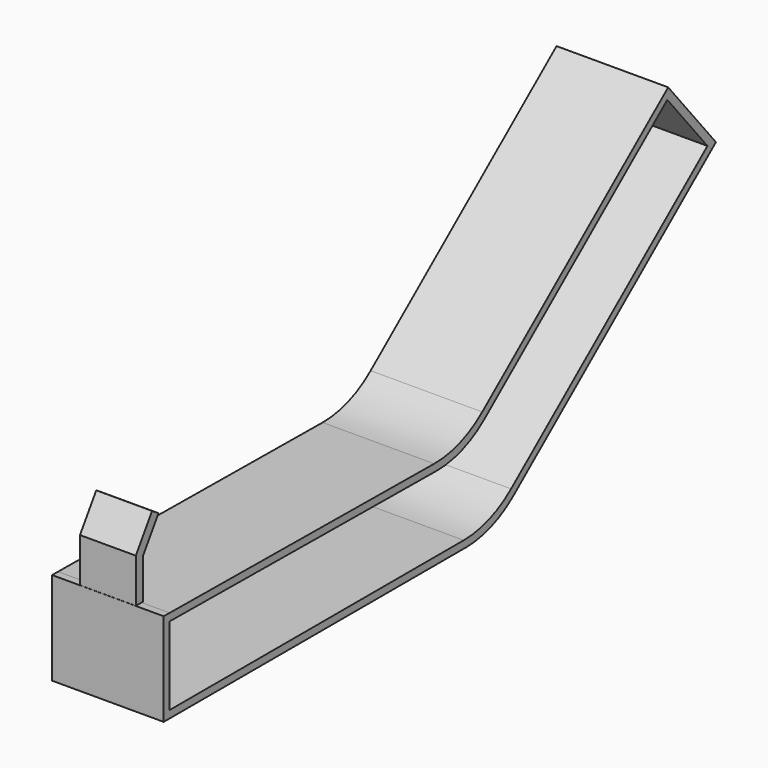
from build123d import *

# Parameters (mm, degrees)
F1_DEPTH = 3.81
F3_DEPTH = 1.905


with BuildPart() as f1:
    # F0 (on Right) → F1 (new body, symmetric)
    with BuildSketch(Plane.YZ):
        with BuildLine():
            Line((0, 5.841977), (0, 0))
            Line((0, 0), (25.789659, 0))
            ThreePointArc((25.789659, 0), (27.93331, 0.372772), (29.825279, 1.447321))
            Line((29.825279, 1.447321), (47.124376, 15.687003))
            Line((47.124376, 15.687003), (43.048515, 20.638569))
            Line((43.048515, 20.638569), (27.183299, 7.57918))
            ThreePointArc((27.183299, 7.57918), (25.263106, 6.494584), (23.087761, 6.132142))
            Line((23.087761, 6.132142), (0.508, 6.345206))
            Line((0.508, 6.345206), (0, 6.35))
            Line((0, 6.35), (0, 5.841977))
        make_face()
        with BuildLine():
            Line((25.607471, 0.508), (0.508, 0.508))
            Line((0.508, 0.508), (0.508, 5.837184))
            Line((0.508, 5.837184), (23.267856, 5.62242))
            ThreePointArc((23.267856, 5.62242), (25.443201, 5.984862), (27.363394, 7.069458))
            Line((27.363394, 7.069458), (42.973744, 19.919055))
            Line((42.973744, 19.919055), (46.402173, 15.750491))
            Line((46.402173, 15.750491), (29.643092, 1.955321))
            ThreePointArc((29.643092, 1.955321), (27.751123, 0.880772), (25.607471, 0.508))
        make_face(mode=Mode.SUBTRACT)
        with BuildLine():
            Line((0, 5.841977), (0, 0))
            Line((0, 0), (25.789659, 0))
            ThreePointArc((25.789659, 0), (27.93331, 0.372772), (29.825279, 1.447321))
            Line((29.825279, 1.447321), (47.124376, 15.687003))
            Line((47.124376, 15.687003), (43.048515, 20.638569))
            Line((43.048515, 20.638569), (27.183299, 7.57918))
            ThreePointArc((27.183299, 7.57918), (25.263106, 6.494584), (23.087761, 6.132142))
            Line((23.087761, 6.132142), (0.508, 6.345206))
            Line((0.508, 6.345206), (0, 6.35))
            Line((0, 6.35), (0, 5.841977))
        make_face()
        with BuildLine():
            Line((25.607471, 0.508), (0.508, 0.508))
            Line((0.508, 0.508), (0.508, 5.837184))
            Line((0.508, 5.837184), (23.267856, 5.62242))
            ThreePointArc((23.267856, 5.62242), (25.443201, 5.984862), (27.363394, 7.069458))
            Line((27.363394, 7.069458), (42.973744, 19.919055))
            Line((42.973744, 19.919055), (46.402173, 15.750491))
            Line((46.402173, 15.750491), (29.643092, 1.955321))
            ThreePointArc((29.643092, 1.955321), (27.751123, 0.880772), (25.607471, 0.508))
        make_face(mode=Mode.SUBTRACT)
    extrude(amount=F1_DEPTH, both=True)


with BuildPart() as f3:
    # F2 (on Right) → F3 (new body, symmetric)
    with BuildSketch(Plane.YZ):
        Polygon((0, 9.372201), (0, 6.356489), (0.595771, 6.352376), (0.595771, 9.078988), (1.941208, 11.135062), (1.389717, 11.495942), align=None)
    extrude(amount=F3_DEPTH, both=True)


solid = Compound([f1.part, f3.part])
